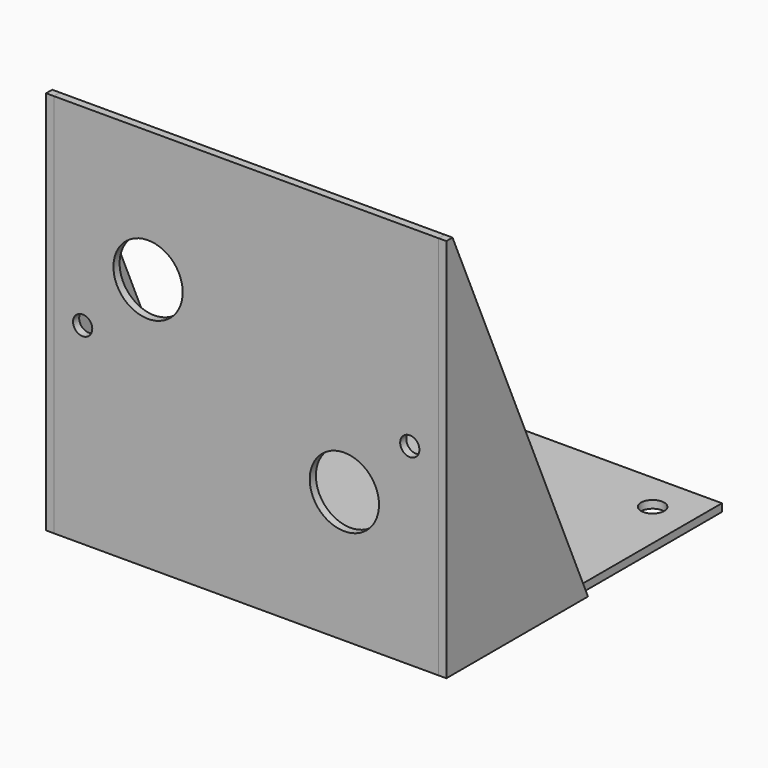
from build123d import *

# Parameters (mm, degrees)
F0_W     = 100
F0_H     = 100
F0_R     = 9
F0_R_2   = 2.5
F1_DEPTH = 2
F2_W     = 100
F2_H     = 2
F3_DEPTH = 90
F4_R     = 3
F5_DEPTH = 25
F7_DEPTH = 2


with BuildPart() as f1:
    # F0 (on Front) → F1 (new body)
    with BuildSketch(Plane.XZ):
        Rectangle(F0_W, F0_H)
        with Locations((25.5, -16)):
            Circle(F0_R, mode=Mode.SUBTRACT)
        with Locations((-42.5, 0)):
            Circle(F0_R_2, mode=Mode.SUBTRACT)
        with Locations((-25.5, 16)):
            Circle(F0_R, mode=Mode.SUBTRACT)
        with Locations((42.5, 0)):
            Circle(F0_R_2, mode=Mode.SUBTRACT)
    extrude(amount=F1_DEPTH)

    # F2 (on face) → F3 (join)
    with BuildSketch(Plane(origin=(0, 0, 0), x_dir=(-1, 0, 0), z_dir=(0, 1, 0))):
        with Locations((0, -49)):
            Rectangle(F2_W, F2_H)
    extrude(amount=F3_DEPTH)

    # F4 (on face) → F5 (cut)
    with BuildSketch(Plane.XY.offset(-48)):
        with Locations((-40, 80)):
            Circle(F4_R)
        with Locations((40, 80)):
            Circle(F4_R)
        with Locations((-40, 10)):
            Circle(F4_R)
        with Locations((40, 10)):
            Circle(F4_R)
    extrude(amount=-F5_DEPTH, mode=Mode.SUBTRACT)


with BuildPart() as f7:
    # F6 (on face) → F7 (new body)
    with BuildSketch(Plane.YZ.offset(50)):
        Polygon((0, 50), (-2, 50), (-2, -50), (44, -50), align=None)
    extrude(amount=F7_DEPTH)


with BuildPart() as f8_1:
    # F8: instance of F7
    add(f7.part.mirror(Plane.YZ))


solid = Compound([f1.part, f7.part, f8_1.part])
